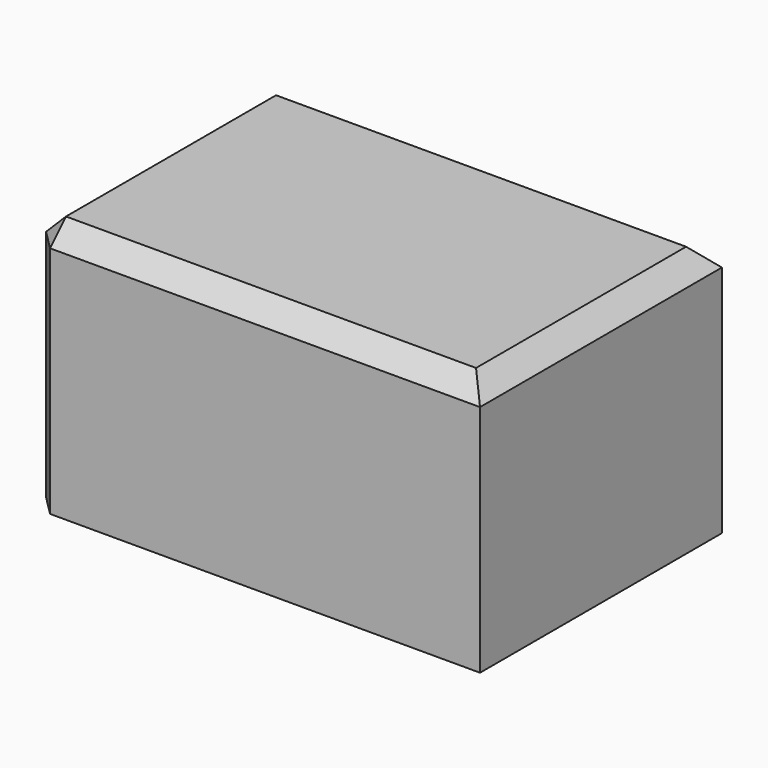
from build123d import *

# Parameters (mm, degrees)
F0_W     = 114.821017
F0_H     = 77.175923
F1_DEPTH = 64.77
F2_SIZE  = 5.08


with BuildPart() as f1:
    # F0 (on Top) → F1 (new body)
    with BuildSketch(Plane.XY):
        with Locations((-57.410508, -38.587961)):
            Rectangle(F0_W, F0_H)
    extrude(amount=F1_DEPTH)

    # F2
    f2_edges = [f1.edges().sort_by_distance(p)[0] for p in [
        (-114.821017, -38.587961, 64.77),
        (-57.410508, 0, 64.77),
        (0, -38.587961, 64.77),
        (-57.410508, -77.175923, 64.77),
        (-114.821017, -77.175923, 32.385),
    ]]
    chamfer(f2_edges, length=F2_SIZE)


solid = f1.part
